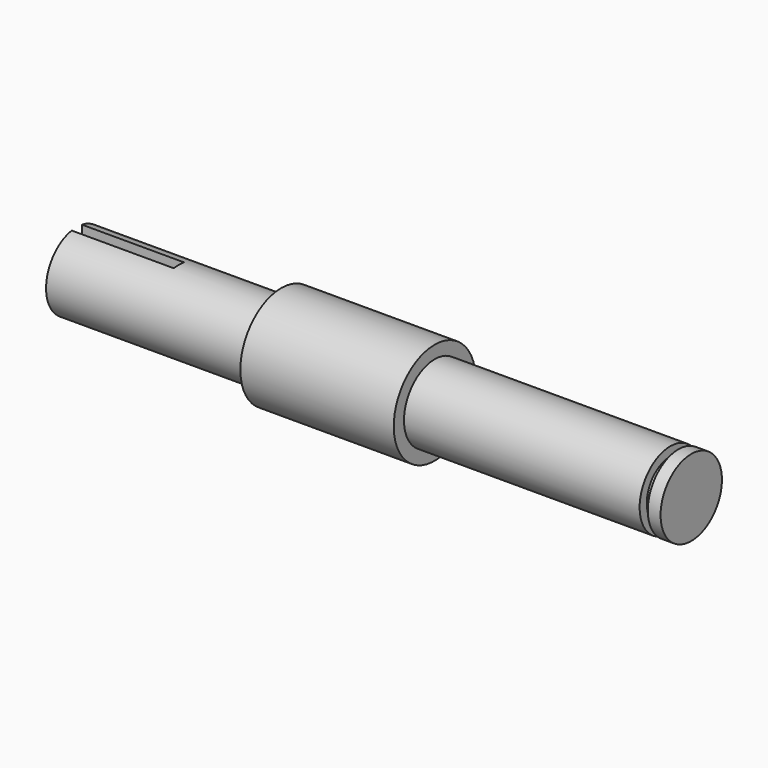
from build123d import *

# Parameters (mm, degrees)
F0_W          = 6.35
F0_H          = 4.7625
F0_W_2        = 4.5974
F0_W_3        = 1.016
F0_H_2        = 3.6544946585
F2_W          = 12.7
F2_H          = 1.5875
F3_DEPTH      = 0.79375
F3_DEPTH_BACK = 0.79375


with BuildPart() as f1:
    # F0 (on Front) → F1 (revolve)
    with BuildSketch(Plane.XZ):
        Rectangle(F0_W, F0_H)
        with Locations((5.4737, 0)):
            Rectangle(F0_W_2, F0_H)
        with Locations((-5.4737, 0)):
            Rectangle(F0_W_2, F0_H)
        Polygon((14.1224, 2.38125), (7.7724, 2.38125), (7.7724, -2.38125), (14.1224, -2.38125), (14.1224, 1.2732446585), align=None)
        with Locations((-10.9474, 0)):
            Rectangle(F0_W, F0_H)
        with Locations((-14.6304, 0)):
            Rectangle(F0_W_3, F0_H)
        with Locations((14.6304, -0.5540026708)):
            Rectangle(F0_W_3, F0_H_2)
        Polygon((-15.1384, -2.38125), (-15.1384, 2.38125), (-15.1384, 3.96875), (-34.1884, 3.96875), (-34.1884, 2.38125), (-34.1884, -0.79375), (-34.1884, -2.38125), align=None)
        Polygon((15.1384, 1.2732446585), (15.1384, -2.38125), (16.7259, -2.38125), (16.7259, 2.38125), (15.1384, 2.38125), align=None)
        Polygon((-59.5884, -2.38125), (-34.1884, -2.38125), (-34.1884, -0.79375), (-34.1884, 2.38125), (-59.5884, 2.38125), align=None)
    revolve(axis=Axis((0, 0, -2.38125), (-1, 0, 0)))

    # F2 (on Front) → F3 (cut, two sides)
    with BuildSketch(Plane.XZ) as f3_sk:
        with Locations((-53.2384, 1.6244021334)):
            Rectangle(F2_W, F2_H)
    extrude(amount=-F3_DEPTH, mode=Mode.SUBTRACT)
    extrude(f3_sk.sketch, amount=F3_DEPTH_BACK, mode=Mode.SUBTRACT)


solid = f1.part
